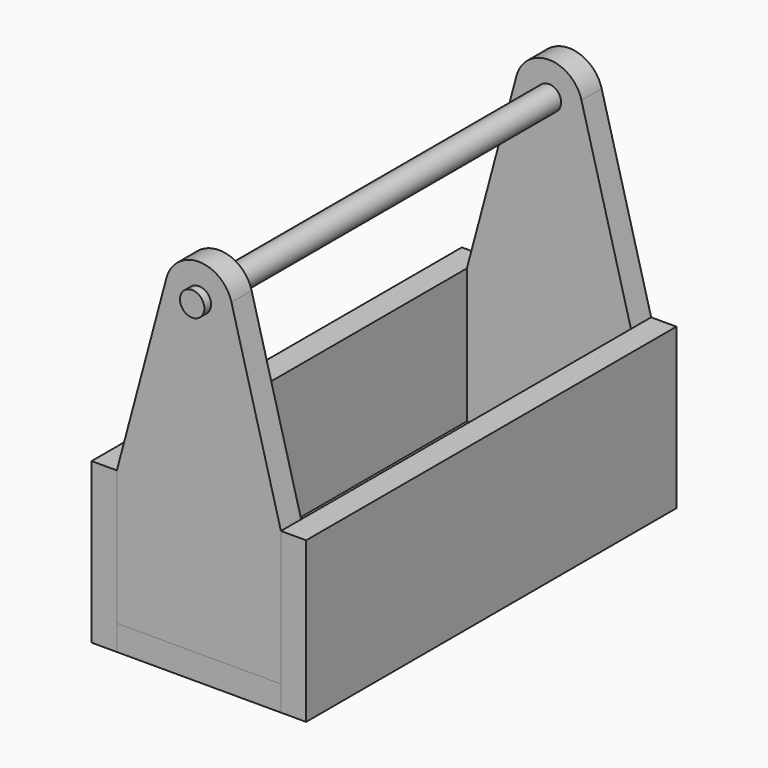
from build123d import *

# Parameters (mm, degrees)
F0_W      = 195
F0_H      = 30
F1_DEPTH  = 275
F3_W      = 30
F3_H      = 190
F4_DEPTH  = 275
F6_R      = 14.5
F7_DEPTH  = 30
F9_R      = 14.5
F10_DEPTH = 285


with BuildPart() as f1:
    # F0 (on Front) → F1 (new body, symmetric)
    with BuildSketch(Plane.XZ):
        with Locations((0, 15)):
            Rectangle(F0_W, F0_H)
    extrude(amount=F1_DEPTH, both=True)


with BuildPart() as f4:
    # F3 (on Front) → F4 (new body, symmetric)
    with BuildSketch(Plane.XZ):
        with Locations((-112.5, 95)):
            Rectangle(F3_W, F3_H)
    extrude(amount=F4_DEPTH, both=True)


with BuildPart() as f5_1:
    # F5: copy of F4
    add(f4.part.moved(Location((225, 0, 0))))


with BuildPart() as f7:
    # F6 (on face) → F7 (new body)
    with BuildSketch(Plane.XZ.offset(275)):
        with BuildLine():
            Line((-97.5, 30), (97.5, 30))
            Line((97.5, 30), (97.5, 190))
            Line((97.5, 190), (38.644931, 410.323242))
            ThreePointArc((38.644931, 410.323242), (0, 440), (-38.644931, 410.323242))
            Line((-38.644931, 410.323242), (-97.5, 190))
            Line((-97.5, 190), (-97.5, 30))
        make_face()
        with Locations((0, 400)):
            Circle(F6_R, mode=Mode.SUBTRACT)
    extrude(amount=-F7_DEPTH)


with BuildPart() as f8_1:
    # F8: copy of F7
    add(f7.part.moved(Location((0, 520, 0))))


with BuildPart() as f10:
    # F9 (on Front) → F10 (new body, symmetric)
    with BuildSketch(Plane.XZ):
        with Locations((0, 400)):
            Circle(F9_R)
    extrude(amount=F10_DEPTH, both=True)


solid = Compound([f1.part, f4.part, f5_1.part, f7.part, f8_1.part, f10.part])
